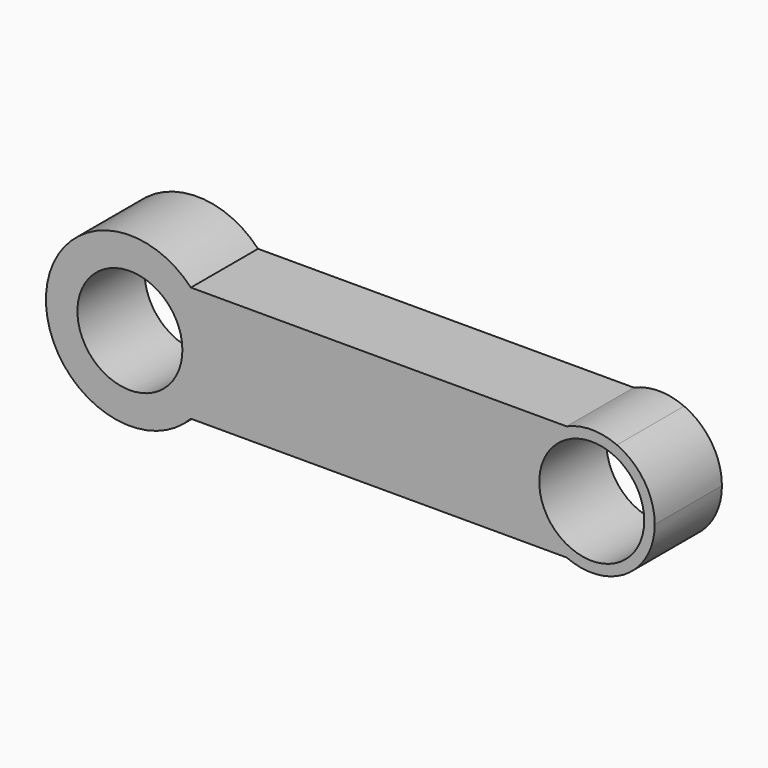
from build123d import *

# Parameters (mm, degrees)
F0_R     = 31.75
F1_DEPTH = 50.8


with BuildPart() as f1:
    # F0 (on Front) → F1 (new body)
    with BuildSketch(Plane.XZ):
        with BuildLine():
            ThreePointArc((36.890166, -34.925), (47.1946, -18.796536), (50.8, 0))
            ThreePointArc((50.8, 0), (47.1946, 18.796536), (36.890166, 34.925))
            ThreePointArc((36.890166, 34.925), (-50.8, 0), (36.890166, -34.925))
        make_face()
        Circle(F0_R, mode=Mode.SUBTRACT)
        with BuildLine():
            ThreePointArc((36.890166, 34.925), (47.1946, 18.796536), (50.8, 0))
            ThreePointArc((50.8, 0), (47.1946, -18.796536), (36.890166, -34.925))
            Line((36.890166, -34.925), (264.173235, -34.925))
            ThreePointArc((264.173235, -34.925), (241.3, 0), (264.173235, 34.925))
            Line((264.173235, 34.925), (36.890166, 34.925))
        make_face()
        with BuildLine():
            Line((294.626765, 34.925), (264.173235, 34.925))
            ThreePointArc((264.173235, 34.925), (241.3, 0), (264.173235, -34.925))
            Line((264.173235, -34.925), (294.626765, -34.925))
            ThreePointArc((294.626765, -34.925), (311.272792, -20.874269), (317.5, 0))
            ThreePointArc((317.5, 0), (311.272792, 20.874269), (294.626765, 34.925))
        make_face()
        with Locations((279.4, 0)):
            Circle(F0_R, mode=Mode.SUBTRACT)
        with BuildLine():
            ThreePointArc((294.626765, 34.925), (279.4, 38.1), (264.173235, 34.925))
            Line((264.173235, 34.925), (294.626765, 34.925))
        make_face()
        with BuildLine():
            Line((294.626765, -34.925), (264.173235, -34.925))
            ThreePointArc((264.173235, -34.925), (279.4, -38.1), (294.626765, -34.925))
        make_face()
    extrude(amount=F1_DEPTH)


solid = f1.part
